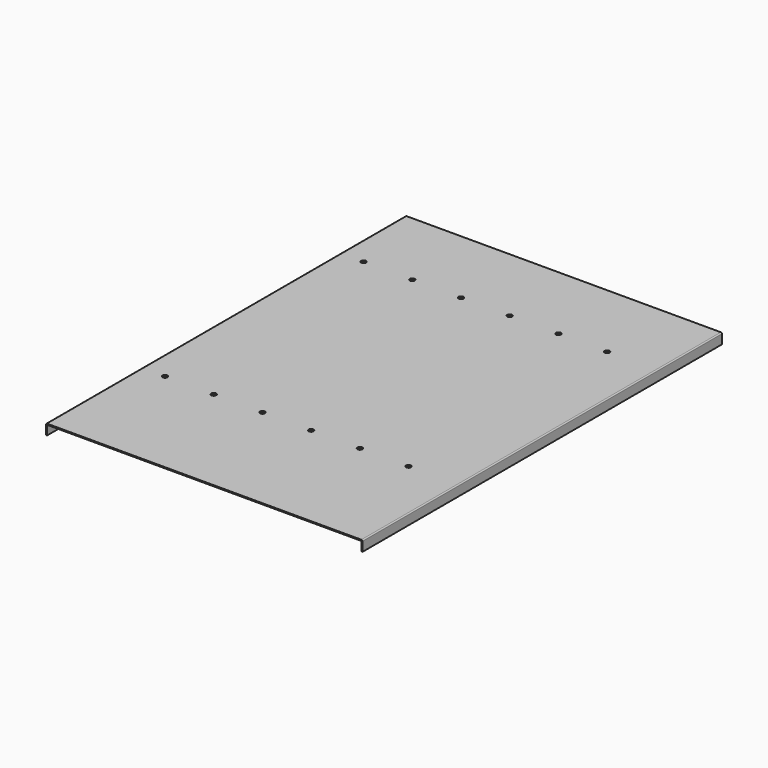
from build123d import *

# Parameters (mm, degrees)
F0_W     = 433
F0_H     = 615
F1_DEPTH = 1.5
F2_W     = 1.5
F2_H     = 615
F3_DEPTH = 12.7
F4_R     = 1.5
F6_D     = 6.7564


with BuildPart() as f1:
    # F0 (on Top) → F1 (new body)
    with BuildSketch(Plane.XY):
        Rectangle(F0_W, F0_H)
    extrude(amount=F1_DEPTH)

    # F2 (on face) → F3 (join)
    with BuildSketch(Plane(origin=(0, 0, 0), x_dir=(1, 0, 0), z_dir=(0, 0, -1))):
        with Locations((-215.75, 0)):
            Rectangle(F2_W, F2_H)
        with Locations((215.75, 0)):
            Rectangle(F2_W, F2_H)
    extrude(amount=F3_DEPTH)

    # F4
    f4_edges = [f1.edges().sort_by_distance(p)[0] for p in [
        (-216.5, 0, 1.5),
        (216.5, 0, 1.5),
    ]]
    fillet(f4_edges, radius=F4_R)

    # F6 (through all)
    with Locations(Plane.XY.offset(1.5)):
        with Locations((-118.375, 196.375), (-51.7, 196.375), (14.975, 196.375), (81.65, 196.375), (148.325, 196.375), (148.325, -143.35), (81.65, -143.35), (14.975, -143.35), (-51.7, -143.35), (-118.375, -143.35), (-185.05, 196.375), (-185.05, -143.35)):
            Hole(F6_D / 2)


solid = f1.part
